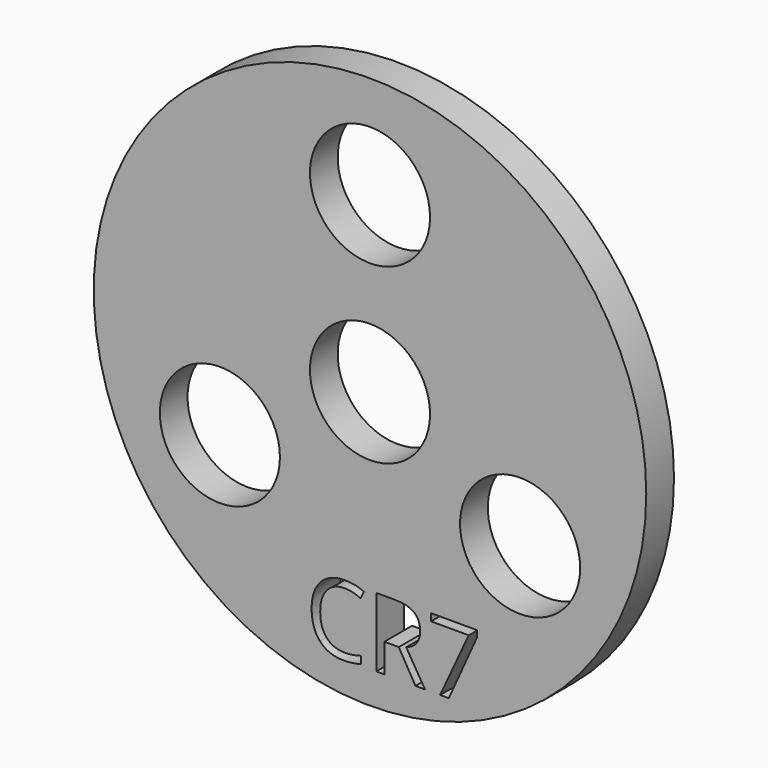
from build123d import *

# Parameters (mm, degrees)
F1_R     = 50.6050754874
F2_DEPTH = 6.35
F0_R     = 10.9982
F3_DEPTH = 6.35


with BuildPart() as f2:
    # F1 (on Front) → F2 (new body)
    with BuildSketch(Plane.XZ):
        Circle(F1_R)
        with BuildLine():
            add(Edge.make_bspline(
                [(-1.7389111535, -33.8362334716), (-3.1769237644, -33.1629443301), (-4.6149363754, -33.1629443301)],
                knots=[0, 0, 0, 1, 1, 1], degree=2))
            add(Edge.make_bspline(
                [(-4.6149363754, -33.1629443301), (-6.7013014931, -33.1629443301), (-7.9093429158, -34.5524690399)],
                knots=[0, 0, 0, 1, 1, 1], degree=2))
            add(Edge.make_bspline(
                [(-7.9093429158, -34.5524690399), (-9.1173843385, -35.9419937498), (-9.1173843385, -38.3580765952)],
                knots=[0, 0, 0, 1, 1, 1], degree=2))
            add(Edge.make_bspline(
                [(-9.1173843385, -38.3580765952), (-9.1173843385, -40.8406571336), (-7.9522893425, -42.196932997)],
                knots=[0, 0, 0, 1, 1, 1], degree=2))
            add(Edge.make_bspline(
                [(-7.9522893425, -42.196932997), (-6.7871943465, -43.5532088603), (-4.6315607987, -43.5532088603)],
                knots=[0, 0, 0, 1, 1, 1], degree=2))
            add(Edge.make_bspline(
                [(-4.6315607987, -43.5532088603), (-3.3071484132, -43.5532088603), (-1.6086865047, -43.0766420605)],
                knots=[0, 0, 0, 1, 1, 1], degree=2))
            Line((-1.6086865047, -43.0766420605), (-1.6086865047, -44.3650348623))
            add(Edge.make_bspline(
                [(-1.6086865047, -44.3650348623), (-2.9247866785, -44.8609968225), (-4.8559905125, -44.8609968225)],
                knots=[0, 0, 0, 1, 1, 1], degree=2))
            add(Edge.make_bspline(
                [(-4.8559905125, -44.8609968225), (-7.6516643555, -44.8609968225), (-9.1714137141, -43.162534914)],
                knots=[0, 0, 0, 1, 1, 1], degree=2))
            add(Edge.make_bspline(
                [(-9.1714137141, -43.162534914), (-10.6911630727, -41.4640730054), (-10.6911630727, -38.3386814348)],
                knots=[0, 0, 0, 1, 1, 1], degree=2))
            add(Edge.make_bspline(
                [(-10.6911630727, -38.3386814348), (-10.6911630727, -36.3825409659), (-9.9596884498, -34.9112795084)],
                knots=[0, 0, 0, 1, 1, 1], degree=2))
            add(Edge.make_bspline(
                [(-9.9596884498, -34.9112795084), (-9.2282138268, -33.4400180509), (-7.8470013286, -32.6434311036)],
                knots=[0, 0, 0, 1, 1, 1], degree=2))
            add(Edge.make_bspline(
                [(-7.8470013286, -32.6434311036), (-6.4657888304, -31.8468441563), (-4.595541215, -31.8468441563)],
                knots=[0, 0, 0, 1, 1, 1], degree=2))
            add(Edge.make_bspline(
                [(-4.595541215, -31.8468441563), (-2.6061518996, -31.8468441563), (-1.1154952816, -32.5727773048)],
                knots=[0, 0, 0, 1, 1, 1], degree=2))
            Line((-1.1154952816, -32.5727773048), (-1.7389111535, -33.8362334716))
        make_face(mode=Mode.SUBTRACT)
        with BuildLine():
            Line((5.2682832457, -39.4220396831), (2.6249999492, -39.4220396831))
            Line((2.6249999492, -39.4220396831), (2.6249999492, -44.6864403784))
            Line((2.6249999492, -44.6864403784), (1.1537384918, -44.6864403784))
            Line((1.1537384918, -44.6864403784), (1.1537384918, -32.0269420748))
            Line((1.1537384918, -32.0269420748), (4.6254722135, -32.0269420748))
            add(Edge.make_bspline(
                [(4.6254722135, -32.0269420748), (6.9556622055, -32.0269420748), (8.0681131945, -32.9191194558)],
                knots=[0, 0, 0, 1, 1, 1], degree=2))
            add(Edge.make_bspline(
                [(8.0681131945, -32.9191194558), (9.1805641835, -33.8112968368), (9.1805641835, -35.6039638104)],
                knots=[0, 0, 0, 1, 1, 1], degree=2))
            add(Edge.make_bspline(
                [(9.1805641835, -35.6039638104), (9.1805641835, -38.1142517209), (6.6342566893, -38.9981168903)],
                knots=[0, 0, 0, 1, 1, 1], degree=2))
            Line((6.6342566893, -38.9981168903), (10.0727415645, -44.6864403784))
            Line((10.0727415645, -44.6864403784), (8.3327185979, -44.6864403784))
            Line((8.3327185979, -44.6864403784), (5.2682832457, -39.4220396831))
        make_face(mode=Mode.SUBTRACT)
        Polygon((14.4366526672, -44.6864403784), (12.8434787726, -44.6864403784), (18.0884843075, -33.3513544602), (11.1893486594, -33.3513544602), (11.1893486594, -32.0269420748), (19.6123897719, -32.0269420748), (19.6123897719, -33.1795687533), align=None, mode=Mode.SUBTRACT)
    extrude(amount=F2_DEPTH)

    # F0 (on Front) → F3 (cut)
    with BuildSketch(Plane.XZ):
        with Locations((0, 31.75)):
            Circle(F0_R)
        Circle(F0_R)
        with Locations((-27.4963065702, -15.875)):
            Circle(F0_R)
        with Locations((27.4963065702, -15.875)):
            Circle(F0_R)
    extrude(amount=F3_DEPTH, mode=Mode.SUBTRACT)


solid = f2.part
